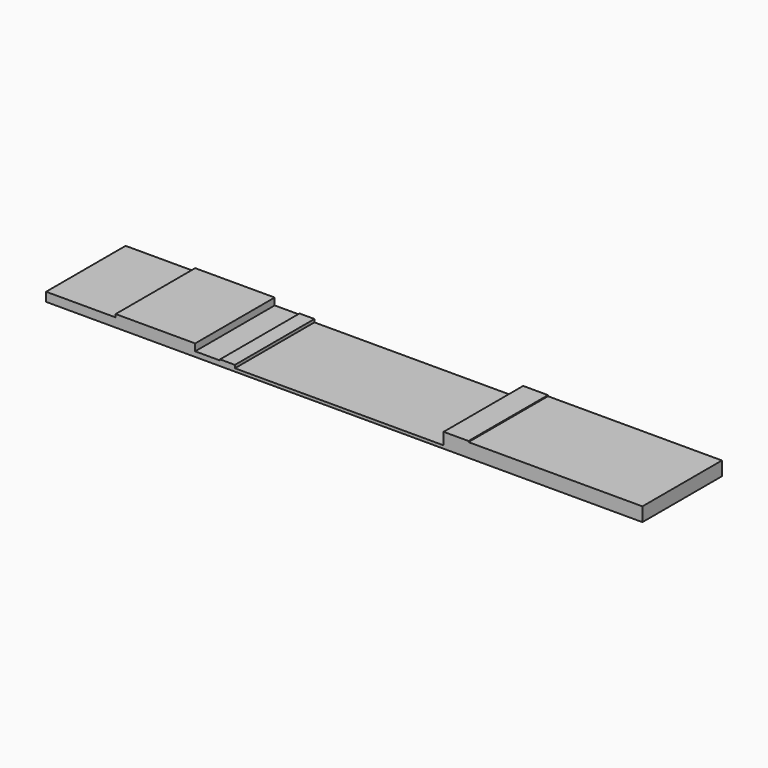
from build123d import *

# Parameters (mm, degrees)
F0_W      = 60
F0_H      = 10
F1_DEPTH  = 0.2
F2_W      = 25
F2_H      = 10
F3_DEPTH  = 0.1
F4_W      = 1.5
F4_H      = 10
F5_DEPTH  = 0.3
F6_W      = 10.5
F6_H      = 10
F7_DEPTH  = 0.3
F8_W      = 7
F8_H      = 10
F9_DEPTH  = 0.7
F10_W     = 8
F10_H     = 10
F11_DEPTH = 0.7
F12_W     = 17.5
F12_H     = 10
F13_DEPTH = 1.2
F14_W     = 2.5
F14_H     = 10
F15_DEPTH = 1.2


with BuildPart() as f1:
    # F0 (on Top) → F1 (new body)
    with BuildSketch(Plane.XY):
        Rectangle(F0_W, F0_H)
    extrude(amount=F1_DEPTH)

    # F2 (on face) → F3 (join)
    with BuildSketch(Plane.XY.offset(0.2)):
        Rectangle(F2_W, F2_H)
    extrude(amount=F3_DEPTH)

    # F4 (on face) → F5 (join)
    with BuildSketch(Plane.XY.offset(0.3)):
        with Locations((-11.75, 0)):
            Rectangle(F4_W, F4_H)
    extrude(amount=F5_DEPTH)

    # F6 (on face) → F7 (join)
    with BuildSketch(Plane.XY.offset(0.2)):
        with Locations((-17.75, 0)):
            Rectangle(F6_W, F6_H)
    extrude(amount=F7_DEPTH)

    # F8 (on face) → F9 (join)
    with BuildSketch(Plane.XY.offset(0.2)):
        with Locations((-26.5, 0)):
            Rectangle(F8_W, F8_H)
    extrude(amount=F9_DEPTH)

    # F10 (on face) → F11 (join)
    with BuildSketch(Plane.XY.offset(0.5)):
        with Locations((-19, 0)):
            Rectangle(F10_W, F10_H)
    extrude(amount=F11_DEPTH)

    # F12 (on face) → F13 (join)
    with BuildSketch(Plane.XY.offset(0.2)):
        with Locations((21.25, 0)):
            Rectangle(F12_W, F12_H)
    extrude(amount=F13_DEPTH)

    # F14 (on face) → F15 (join)
    with BuildSketch(Plane.XY.offset(0.3)):
        with Locations((11.25, 0)):
            Rectangle(F14_W, F14_H)
    extrude(amount=F15_DEPTH)


solid = f1.part
